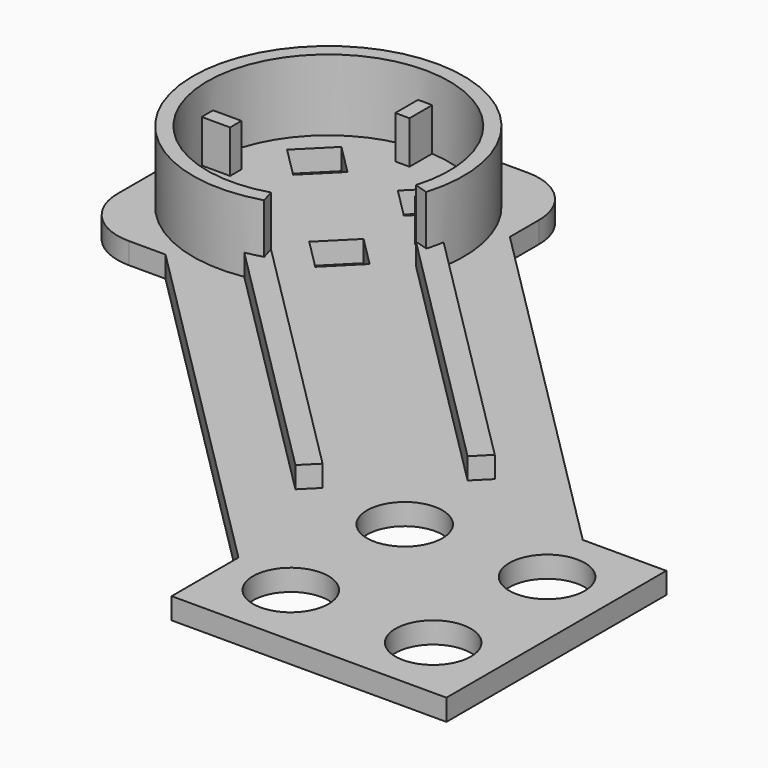
from build123d import *

# Parameters (mm, degrees)
PAD002_DEPTH    = 3
POCKET001_DEPTH = 5
PAD003_DEPTH    = 10
FILLET_R        = 8
FILLET001_R     = 8
FILLET002_R     = 8
PAD004_DEPTH    = 3
SKETCH007_W     = 2
SKETCH007_H     = 4
SKETCH007_W_2   = 4
SKETCH007_H_2   = 2
PAD005_DEPTH    = 6
SKETCH008_R     = 5.3
POCKET002_DEPTH = 5


with BuildPart() as part:
    # Sketch003 → Pad002 (new body)
    with BuildSketch(Plane.XY.offset(3.2)):
        Polygon((-63.6396103068, 90.5096679919), (-12.4299423149, 39.3), (-0.7, 39.3), (-0.7, 0.7), (-39.3, 0.7), (-39.3, 12.4299423149), (-90.5096679919, 63.6396103068), (-103.6396103068, 63.6396103068), (-103.6396103068, 103.6396103068), (-63.6396103068, 103.6396103068), align=None)
    extrude(amount=PAD002_DEPTH)

    # Sketch004 (on Face12 of Pad002) → Pocket001 (cut)
    with BuildSketch(Plane.XY.offset(6.2)):
        Polygon((-95.660425587, 75.8614357137), (-91.4177848998, 80.1040764009), (-87.1751442127, 75.8614357137), (-91.4177848998, 71.6187950266), align=None)
        Polygon((-75.8614357137, 87.1751442127), (-80.1040764009, 91.4177848998), (-75.8614357137, 95.660425587), (-71.6187950266, 91.4177848998), align=None)
        Polygon((-87.1751442127, 91.4177848998), (-91.4177848998, 87.1751442127), (-95.660425587, 91.4177848998), (-91.4177848998, 95.660425587), align=None)
        Polygon((-75.8614357137, 80.1040764009), (-80.1040764009, 75.8614357137), (-75.8614357137, 71.6187950266), (-71.6187950266, 75.8614357137), align=None)
    extrude(amount=-POCKET001_DEPTH, mode=Mode.SUBTRACT)

    # Sketch005 (on Face5 of Pocket001) → Pad003 (join)
    with BuildSketch(Plane.XY.offset(6.2)):
        with BuildLine():
            ThreePointArc((-67.3761543395, 78.6898628385), (-95.660425587, 95.660425587), (-78.6898628385, 67.3761543395))
            Line((-78.6898628385, 67.3761543395), (-78.1075396069, 65.4628065786))
            ThreePointArc((-65.4628065786, 78.1075396069), (-97.0746391493, 97.0746391493), (-78.1075396069, 65.4628065786))
            Line((-67.3761543395, 78.6898628385), (-65.4628065786, 78.1075396069))
        make_face()
    extrude(amount=PAD003_DEPTH)

    # Fillet
    fillet_edges = [part.edges().sort_by_distance(p)[0] for p in [
        (-103.63961, 63.63961, 4.7),
    ]]
    fillet(fillet_edges, radius=FILLET_R)

    # Fillet001
    fillet001_edges = [part.edges().sort_by_distance(p)[0] for p in [
        (-103.63961, 103.63961, 4.7),
    ]]
    fillet(fillet001_edges, radius=FILLET001_R)

    # Fillet002
    fillet002_edges = [part.edges().sort_by_distance(p)[0] for p in [
        (-63.63961, 103.63961, 4.7),
    ]]
    fillet(fillet002_edges, radius=FILLET002_R)

    # Sketch006 (on Face31 of Fillet002) → Pad004 (join)
    with BuildSketch(Plane.XY.offset(6.2)):
        Polygon((-80.6101730553, 65.0538238692), (-78.4888527117, 67.1751442127), (-42.4264068712, 31.1126983722), (-44.5477272148, 28.9913780286), align=None)
        Polygon((-67.1751442128, 78.4888527117), (-65.0538238692, 80.6101730553), (-28.9913780286, 44.5477272148), (-31.1126983722, 42.4264068711), align=None)
    extrude(amount=PAD004_DEPTH)

    # Sketch007 (on Face31 of Pad004) → Pad005 (join)
    with BuildSketch(Plane.XY.offset(6.2)):
        with Locations((-83.6396103068, 98.6396103068)):
            Rectangle(SKETCH007_W, SKETCH007_H)
        with Locations((-98.6396103068, 83.6396103068)):
            Rectangle(SKETCH007_W_2, SKETCH007_H_2)
        with Locations((-68.6414357137, 83.6396103068)):
            Rectangle(SKETCH007_W_2, SKETCH007_H_2)
        with Locations((-83.6396103068, 68.6414357137)):
            Rectangle(SKETCH007_W, SKETCH007_H)
    extrude(amount=PAD005_DEPTH)

    # Sketch008 (on Face31 of Pad005) → Pocket002 (cut)
    with BuildSketch(Plane.XY.offset(6.2)):
        with Locations((-30, 30)):
            Circle(SKETCH008_R)
        with Locations((-10, 30)):
            Circle(SKETCH008_R)
        with Locations((-30, 10)):
            Circle(SKETCH008_R)
        with Locations((-10, 10)):
            Circle(SKETCH008_R)
    extrude(amount=-POCKET002_DEPTH, mode=Mode.SUBTRACT)


solid = part.part
